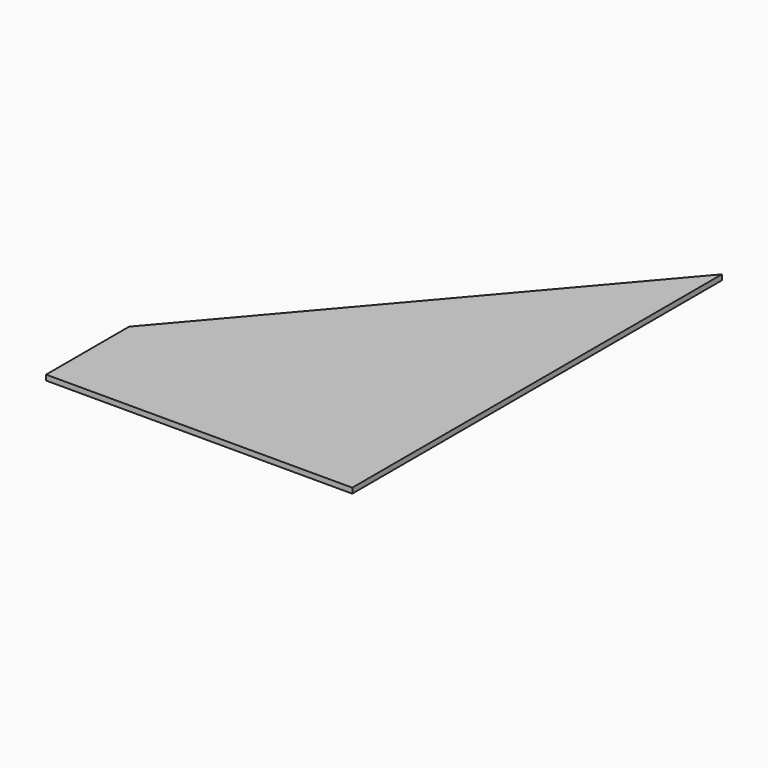
from build123d import *

# Parameters (mm, degrees)
PAD_DEPTH = 9


with BuildPart() as part:
    # Sketch → Pad (new body)
    with BuildSketch(Plane.XY):
        Polygon((0, 0), (0, 784.762624), (-520, 176.309016), (-520, 0), align=None)
    extrude(amount=PAD_DEPTH)


solid = part.part
